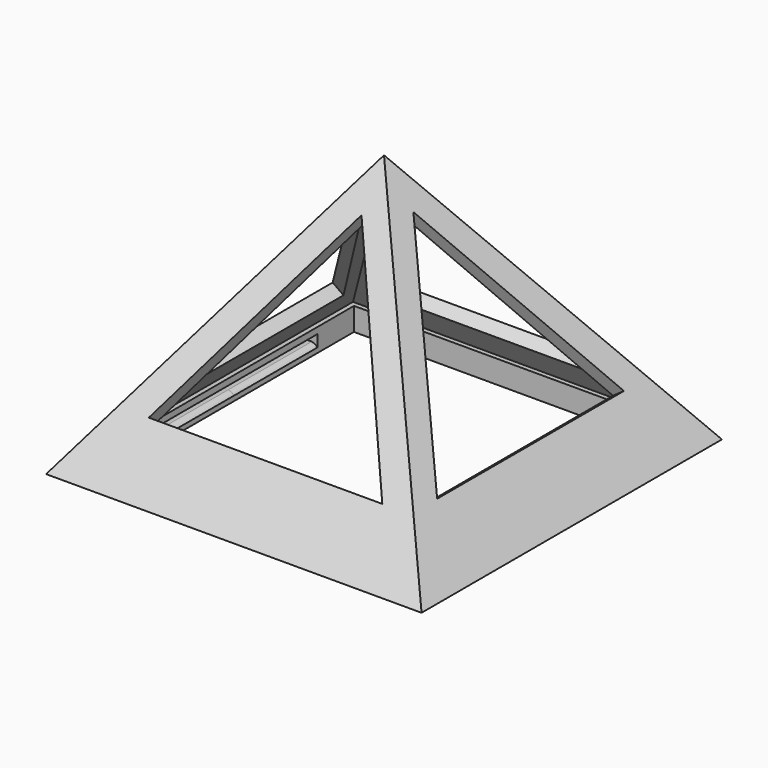
from build123d import *

# Parameters (mm, degrees)
F2_W           = 90
F2_H           = 90
F6_W           = 82
F6_H           = 82
F12_DEPTH      = 5
F13_DEPTH      = 10.1
F14_DEPTH      = 10
F15_DEPTH      = 10
F17_W          = 82
F17_H          = 82
F17_W_2        = 72
F17_H_2        = 72
F18_DEPTH      = 5.5
F20_DEPTH      = 25
F20_DEPTH_BACK = 25
F21_W          = 7
F21_H          = 5
F22_DEPTH      = 4
F22_DEPTH_BACK = 1.5


with BuildPart() as f3:
    # F2 (on Top) → F3 section 0
    with BuildSketch(Plane.XY, mode=Mode.PRIVATE) as f3_s0:
        Rectangle(F2_W, F2_H)
    loft([f3_s0.sketch, Vertex(0, 0, 63.6368)])

    # F6 (on face) → F7 section 0
    with BuildSketch(Plane.XY, mode=Mode.PRIVATE) as f7_s0:
        Rectangle(F6_W, F6_H)
    loft([f7_s0.sketch, Vertex(0, 0, 58.6368)], mode=Mode.SUBTRACT)

    # F8 (on face) → F12 (cut, symmetric)
    with BuildSketch(Plane(origin=(29.9991167733, 0, 21.2135156827), x_dir=(0, 1, 0), z_dir=(0.8164845616, 0, 0.5773672666))):
        Polygon((0.1463476627, 39.9593571873), (-28.0024763197, -8.9000007138), (27.9615262598, -8.9000007138), align=None)
    extrude(amount=F12_DEPTH, both=True, mode=Mode.SUBTRACT)

    # F9 (on face) → F13 (cut)
    with BuildSketch(Plane(origin=(0, 29.9991167733, 21.2135156827), x_dir=(-1, 0, 0), z_dir=(0, 0.8164845616, 0.5773672666))):
        Polygon((0.1463476627, 39.9593571873), (-27.835653627, -8.5054690465), (28.1283489525, -8.5054690465), align=None)
    extrude(amount=-F13_DEPTH, mode=Mode.SUBTRACT)

    # F10 (on face) → F14 (cut)
    with BuildSketch(Plane(origin=(-29.9991167733, 0, 21.2135156827), x_dir=(0, -1, 0), z_dir=(-0.8164845616, 0, 0.5773672666))):
        Polygon((0.1463476627, 39.9593571873), (-28.9770383388, -9.5114903525), (26.9869642407, -9.5114903525), align=None)
    extrude(amount=-F14_DEPTH, mode=Mode.SUBTRACT)

    # F11 (on face) → F15 (cut)
    with BuildSketch(Plane(origin=(0, -29.9991167733, 21.2135156827), x_dir=(1, 0, 0), z_dir=(0, -0.8164845616, 0.5773672666))):
        Polygon((0.1463476627, 39.9593571873), (-28.0361250043, -9.3999961391), (27.9278775752, -9.3999961391), align=None)
    extrude(amount=-F15_DEPTH, mode=Mode.SUBTRACT)

    # F17 (on face) → F18 (join)
    with BuildSketch(Plane(origin=(0, 0, 0), x_dir=(1, 0, 0), z_dir=(0, 0, -1))):
        Rectangle(F17_W, F17_H)
        Rectangle(F17_W_2, F17_H_2, mode=Mode.SUBTRACT)
    extrude(amount=-F18_DEPTH)

    # F19 (on Front) → F20 (cut, two sides)
    with BuildSketch(Plane.XZ) as f20_sk:
        Polygon((-40.0405423343, 3.5011546063), (-40.0405423343, 2.0011546063), (-37.3253502548, 2.0011546063), (-36, 2.0011546063), (-36, 4.0000034512), align=None)
        with BuildLine():
            Line((-36, 2.0011546063), (-37.3253502548, 2.0011546063))
            add(Edge.make_bspline(
                [(-36, 1.16889), (-36.1044551713, 1.344294706), (-36.4561719625, 1.7902625565), (-36.9847986044, 1.9009668548), (-37.3253502548, 2.0011546063)],
                knots=[0, 0, 0, 0, 0.4677482512, 1, 1, 1, 1], degree=3))
            Line((-36, 1.16889), (-36, 2.0011546063))
        make_face()
    extrude(amount=-F20_DEPTH, mode=Mode.SUBTRACT)
    extrude(f20_sk.sketch, amount=F20_DEPTH_BACK, mode=Mode.SUBTRACT)

    # F21 (on face) → F22 (join, two sides)
    with BuildSketch(Plane.XY.offset(5.5)) as f22_sk:
        with Locations((33.4785108268, -1.5248925798)):
            Rectangle(F21_W, F21_H)
    extrude(amount=F22_DEPTH)
    extrude(f22_sk.sketch, amount=-F22_DEPTH_BACK)


solid = f3.part
